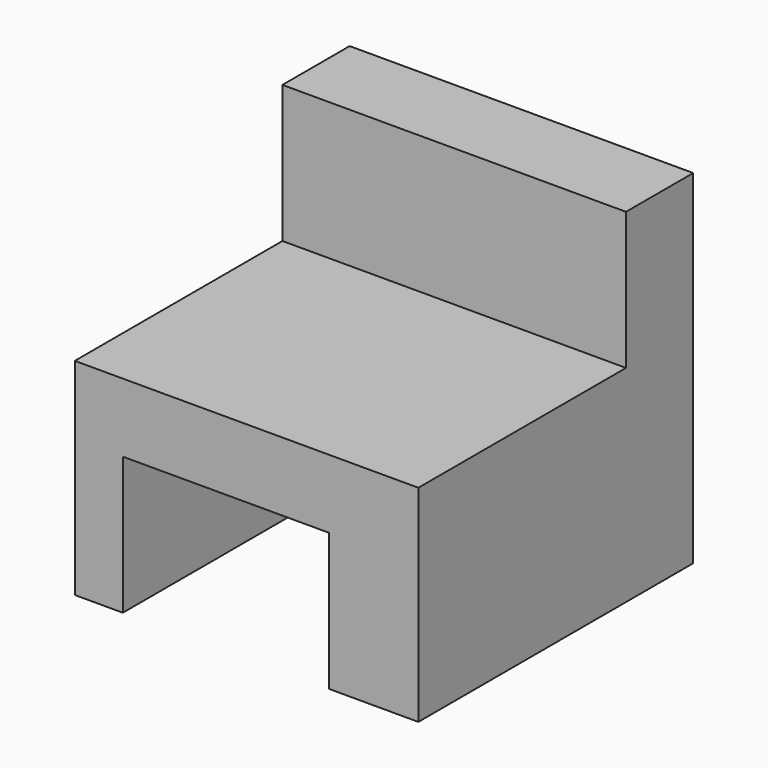
from build123d import *

# Parameters (mm, degrees)
F0_W     = 100
F0_H     = 100
F1_DEPTH = 100
F2_W     = 100
F2_H     = 75.544288
F3_DEPTH = 40
F4_W     = 60
F4_H     = 40
F5_DEPTH = 100.001
F6_DEPTH = 100.001


with BuildPart() as f1:
    # F0 (on Top) → F1 (new body)
    with BuildSketch(Plane.XY):
        Rectangle(F0_W, F0_H)
    extrude(amount=F1_DEPTH)

    # F2 (on face) → F3 (cut)
    with BuildSketch(Plane.XY.offset(100)):
        with Locations((0, -12.227856)):
            Rectangle(F2_W, F2_H)
    extrude(amount=-F3_DEPTH, mode=Mode.SUBTRACT)

    # F4 (on face) → F5 (cut, through all)
    with BuildSketch(Plane.XZ.offset(50)):
        with Locations((-6.015749, 20)):
            Rectangle(F4_W, F4_H)
    extrude(amount=-F5_DEPTH, mode=Mode.SUBTRACT)

    # F4 (on face) → F6 (cut, through all)
    with BuildSketch(Plane.XZ.offset(50)):
        with Locations((-6.015749, 20)):
            Rectangle(F4_W, F4_H)
    extrude(amount=-F6_DEPTH, mode=Mode.SUBTRACT)


solid = f1.part
